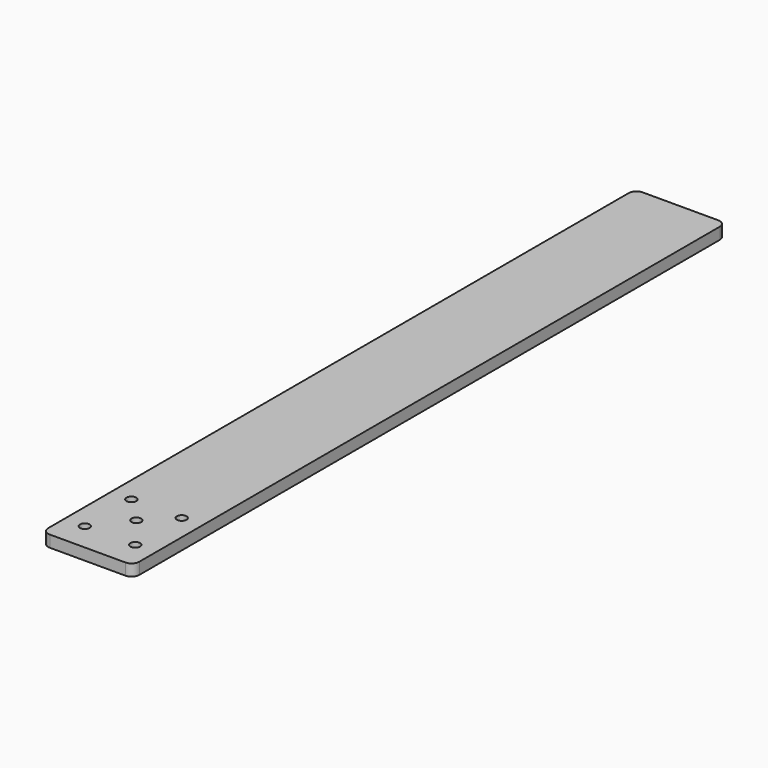
from build123d import *

# Parameters (mm, degrees)
F0_W     = 298.45
F0_H     = 2428.875
F1_DEPTH = 38.1
F2_R     = 25.4
F3_R     = 25.4
F4_R     = 25.4
F6_D     = 31.75
F6_DEPTH = 25.4
F6_TIP   = 9.5386623271


with BuildPart() as f1:
    # F0 (on Top) → F1 (new body)
    with BuildSketch(Plane.XY):
        Rectangle(F0_W, F0_H)
    extrude(amount=F1_DEPTH)

    # F2
    f2_edges = [f1.edges().sort_by_distance(p)[0] for p in [
        (149.225, 1214.4375, 19.05),
    ]]
    fillet(f2_edges, radius=F2_R)

    # F3
    f3_edges = [f1.edges().sort_by_distance(p)[0] for p in [
        (-149.225, 1214.4375, 19.05),
    ]]
    fillet(f3_edges, radius=F3_R)

    # F4
    f4_edges = [f1.edges().sort_by_distance(p)[0] for p in [
        (-149.225, -1214.4375, 19.05),
        (149.225, -1214.4375, 19.05),
    ]]
    fillet(f4_edges, radius=F4_R)

    # F6
    with Locations(Plane.XY.offset(38.1)):
        with Locations((-82.55, -1122.3625), (82.55, -1122.3625), (0, -1014.4125), (82.55, -931.8625), (-82.55, -931.8625)):
            Hole(F6_D / 2, depth=F6_DEPTH)
            with Locations((0, 0, -(F6_DEPTH + F6_TIP / 2))):  # 118° drill point
                Cone(0, F6_D / 2, F6_TIP, mode=Mode.SUBTRACT)


solid = f1.part
